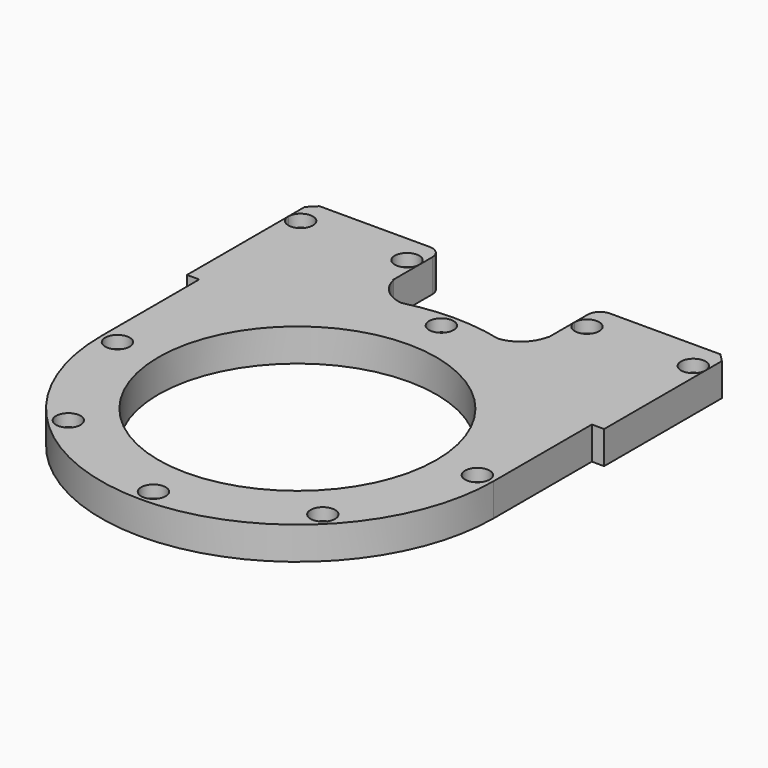
from build123d import *

# Parameters (mm, degrees)
CYLINDER642_R               = 1.5
CYLINDER642_DEPTH           = 30
CYLINDER642_PLACEMENT_ANGLE = 157.5
CYLINDER641_R               = 1.5
CYLINDER641_DEPTH           = 30
CYLINDER641_PLACEMENT_ANGLE = 67.5
CYLINDER688_R               = 3
CYLINDER688_DEPTH           = 3
CYLINDER689_R               = 3
CYLINDER689_DEPTH           = 3
CYLINDER640_R               = 3
CYLINDER640_DEPTH           = 3
CYLINDER637_R               = 3
CYLINDER637_DEPTH           = 3
CYLINDER644_R               = 3
CYLINDER644_DEPTH           = 3
CYLINDER644_PLACEMENT_ANGLE = 157.5
CYLINDER643_R               = 3
CYLINDER643_DEPTH           = 3
CYLINDER643_PLACEMENT_ANGLE = 67.5
CYLINDER634_R               = 3
CYLINDER634_DEPTH           = 3
CYLINDER634_PLACEMENT_ANGLE = 22.5
CYLINDER635_R               = 3
CYLINDER635_DEPTH           = 3
CYLINDER635_PLACEMENT_ANGLE = 112.5
CYLINDER636_R               = 3
CYLINDER636_DEPTH           = 3
CYLINDER636_PLACEMENT_ANGLE = 202.5
CYLINDER687_R               = 3
CYLINDER687_DEPTH           = 3
CYLINDER687_PLACEMENT_ANGLE = 67.5
CYLINDER686_R               = 8
CYLINDER686_DEPTH           = 10
CYLINDER685_R               = 8
CYLINDER685_DEPTH           = 10
CYLINDER622_R               = 1.5
CYLINDER622_DEPTH           = 30
CYLINDER684_R               = 1.5
CYLINDER684_DEPTH           = 30
CYLINDER624_R               = 1.5
CYLINDER624_DEPTH           = 30
CYLINDER621_R               = 1.5
CYLINDER621_DEPTH           = 30
BOX326_W                    = 6
BOX326_H                    = 6
BOX326_DEPTH                = 2
BOX327_W                    = 6
BOX327_H                    = 6
BOX327_DEPTH                = 2
BOX328_W                    = 6
BOX328_H                    = 6
BOX328_DEPTH                = 2
BOX325_W                    = 6
BOX325_H                    = 6
BOX325_DEPTH                = 2
CYLINDER618_R               = 1.5
CYLINDER618_DEPTH           = 30
CYLINDER618_PLACEMENT_ANGLE = 22.5
CYLINDER619_R               = 1.5
CYLINDER619_DEPTH           = 30
CYLINDER619_PLACEMENT_ANGLE = 112.5
CYLINDER620_R               = 1.5
CYLINDER620_DEPTH           = 30
CYLINDER620_PLACEMENT_ANGLE = 202.5
CYLINDER617_R               = 1.5
CYLINDER617_DEPTH           = 30
CYLINDER617_PLACEMENT_ANGLE = 67.5
BOX322_W                    = 6
BOX322_H                    = 8
BOX322_DEPTH                = 2
BOX323_W                    = 6
BOX323_H                    = 8
BOX323_DEPTH                = 2
BOX324_W                    = 6
BOX324_H                    = 8
BOX324_DEPTH                = 2
BOX321_W                    = 6
BOX321_H                    = 8
BOX321_DEPTH                = 2
CYLINDER615_R               = 2.5
CYLINDER615_DEPTH           = 30
CYLINDER616_R               = 2.5
CYLINDER616_DEPTH           = 30
CYLINDER614_R               = 2.5
CYLINDER614_DEPTH           = 150
BOX313_W                    = 20
BOX313_H                    = 200
BOX313_DEPTH                = 20
BOX317_W                    = 20
BOX317_H                    = 200
BOX317_DEPTH                = 20
BOX316_W                    = 11
BOX316_H                    = 38
BOX316_DEPTH                = 8
CYLINDER612_R               = 8
CYLINDER612_DEPTH           = 20
BOX315_W                    = 35
BOX315_H                    = 17
BOX315_DEPTH                = 8
BOX314_W                    = 32
BOX314_H                    = 38
BOX314_DEPTH                = 8
BOX320_W                    = 11
BOX320_H                    = 36
BOX320_DEPTH                = 8
CYLINDER613_R               = 8
CYLINDER613_DEPTH           = 20
BOX319_W                    = 35
BOX319_H                    = 17
BOX319_DEPTH                = 8
BOX318_W                    = 32
BOX318_H                    = 38
BOX318_DEPTH                = 8
TUBE063_R                   = 48
TUBE063_R_2                 = 34
TUBE063_DEPTH               = 8
CHAMFER036_SIZE             = 2
FILLET008_R                 = 3


with BuildPart() as obj1:
    # Cylinder642 → Cylinder642 (new body)
    with BuildSketch(Plane.XY):
        Circle(CYLINDER642_R)
    extrude(amount=CYLINDER642_DEPTH)


with BuildPart() as obj1_1:
    # Cylinder642 placement: moved
    add(obj1.part.moved(Location((31.112698, -31.112698, 10))).rotate(Axis((31.112698, -31.112698, 10), (0, 0, 1)), CYLINDER642_PLACEMENT_ANGLE))


with BuildPart() as compound673:
    # Cylinder641 → Cylinder641 (new body)
    with BuildSketch(Plane.XY):
        Circle(CYLINDER641_R)
    extrude(amount=CYLINDER641_DEPTH)


with BuildPart() as compound673_1:
    # Cylinder641 placement: moved
    add(compound673.part.moved(Location((-31.112698, -31.112698, 10))).rotate(Axis((-31.112698, -31.112698, 10), (0, 0, 1)), CYLINDER641_PLACEMENT_ANGLE))

    # Compound673: union obj1
    add(obj1_1.part)


with BuildPart() as obj2:
    # Cylinder688 → Cylinder688 (new body)
    with BuildSketch(Plane(origin=(-22, 61, 0), x_dir=(1, 0, 0), z_dir=(0, 0, 1))):
        Circle(CYLINDER688_R)
    extrude(amount=CYLINDER688_DEPTH)


with BuildPart() as obj3:
    # Cylinder689 → Cylinder689 (new body)
    with BuildSketch(Plane(origin=(48, 61, 0), x_dir=(1, 0, 0), z_dir=(0, 0, 1))):
        Circle(CYLINDER689_R)
    extrude(amount=CYLINDER689_DEPTH)


with BuildPart() as obj4:
    # Cylinder640 → Cylinder640 (new body)
    with BuildSketch(Plane(origin=(22, 61, 0), x_dir=(1, 0, 0), z_dir=(0, 0, 1))):
        Circle(CYLINDER640_R)
    extrude(amount=CYLINDER640_DEPTH)


with BuildPart() as compound672:
    # Cylinder637 → Cylinder637 (new body)
    with BuildSketch(Plane(origin=(-48, 61, 0), x_dir=(1, 0, 0), z_dir=(0, 0, 1))):
        Circle(CYLINDER637_R)
    extrude(amount=CYLINDER637_DEPTH)

    # Compound672: union obj2, obj3, obj4
    add(obj2.part)
    add(obj3.part)
    add(obj4.part)


with BuildPart() as compound672_1:
    # Compound672 placement: moved
    add(compound672.part.moved(Location((0, 0, 28))))


with BuildPart() as obj5:
    # Cylinder644 → Cylinder644 (new body)
    with BuildSketch(Plane.XY):
        Circle(CYLINDER644_R)
    extrude(amount=CYLINDER644_DEPTH)


with BuildPart() as obj5_1:
    # Cylinder644 placement: moved
    add(obj5.part.moved(Location((31.112698, -31.112698, 10))).rotate(Axis((31.112698, -31.112698, 10), (0, 0, 1)), CYLINDER644_PLACEMENT_ANGLE))


with BuildPart() as compound674:
    # Cylinder643 → Cylinder643 (new body)
    with BuildSketch(Plane.XY):
        Circle(CYLINDER643_R)
    extrude(amount=CYLINDER643_DEPTH)


with BuildPart() as compound674_1:
    # Cylinder643 placement: moved
    add(compound674.part.moved(Location((-31.112698, -31.112698, 10))).rotate(Axis((-31.112698, -31.112698, 10), (0, 0, 1)), CYLINDER643_PLACEMENT_ANGLE))

    # Compound674: union obj5
    add(obj5_1.part)


with BuildPart() as compound674_2:
    # Compound674 placement: moved
    add(compound674_1.part.moved(Location((0, 0, 18))))


with BuildPart() as obj6:
    # Cylinder634 → Cylinder634 (new body)
    with BuildSketch(Plane.XY):
        Circle(CYLINDER634_R)
    extrude(amount=CYLINDER634_DEPTH)


with BuildPart() as obj6_1:
    # Cylinder634 placement: moved
    add(obj6.part.moved(Location((-44, 0, 10))).rotate(Axis((-44, 0, 10), (0, 0, 1)), CYLINDER634_PLACEMENT_ANGLE))


with BuildPart() as obj7:
    # Cylinder635 → Cylinder635 (new body)
    with BuildSketch(Plane.XY):
        Circle(CYLINDER635_R)
    extrude(amount=CYLINDER635_DEPTH)


with BuildPart() as obj7_1:
    # Cylinder635 placement: moved
    add(obj7.part.moved(Location((0, -44, 10))).rotate(Axis((0, -44, 10), (0, 0, 1)), CYLINDER635_PLACEMENT_ANGLE))


with BuildPart() as obj8:
    # Cylinder636 → Cylinder636 (new body)
    with BuildSketch(Plane.XY):
        Circle(CYLINDER636_R)
    extrude(amount=CYLINDER636_DEPTH)


with BuildPart() as obj8_1:
    # Cylinder636 placement: moved
    add(obj8.part.moved(Location((44, 0, 10))).rotate(Axis((44, 0, 10), (0, 0, 1)), CYLINDER636_PLACEMENT_ANGLE))


with BuildPart() as compound671:
    # Cylinder687 → Cylinder687 (new body)
    with BuildSketch(Plane.XY):
        Circle(CYLINDER687_R)
    extrude(amount=CYLINDER687_DEPTH)


with BuildPart() as compound671_1:
    # Cylinder687 placement: moved
    add(compound671.part.moved(Location((0, 44, 10))).rotate(Axis((0, 44, 10), (0, 0, -1)), CYLINDER687_PLACEMENT_ANGLE))

    # Compound671: union obj6, obj7, obj8
    add(obj6_1.part)
    add(obj7_1.part)
    add(obj8_1.part)


with BuildPart() as compound671_2:
    # Compound671 placement: moved
    add(compound671_1.part.moved(Location((0, 0, 18))))


with BuildPart() as obj9:
    # Cylinder686 → Cylinder686 (new body)
    with BuildSketch(Plane(origin=(9, 56, 18), x_dir=(0, 0, -1), z_dir=(1, 0, 0))):
        Circle(CYLINDER686_R)
    extrude(amount=CYLINDER686_DEPTH)


with BuildPart() as compound670:
    # Cylinder685 → Cylinder685 (new body)
    with BuildSketch(Plane(origin=(-19, 56, 18), x_dir=(0, 0, -1), z_dir=(1, 0, 0))):
        Circle(CYLINDER685_R)
    extrude(amount=CYLINDER685_DEPTH)

    # Compound670: union obj9
    add(obj9.part)


with BuildPart() as obj10:
    # Cylinder622 → Cylinder622 (new body)
    with BuildSketch(Plane(origin=(-22, 61, 0), x_dir=(1, 0, 0), z_dir=(0, 0, 1))):
        Circle(CYLINDER622_R)
    extrude(amount=CYLINDER622_DEPTH)


with BuildPart() as obj11:
    # Cylinder684 → Cylinder684 (new body)
    with BuildSketch(Plane(origin=(48, 61, 0), x_dir=(1, 0, 0), z_dir=(0, 0, 1))):
        Circle(CYLINDER684_R)
    extrude(amount=CYLINDER684_DEPTH)


with BuildPart() as obj12:
    # Cylinder624 → Cylinder624 (new body)
    with BuildSketch(Plane(origin=(22, 61, 0), x_dir=(1, 0, 0), z_dir=(0, 0, 1))):
        Circle(CYLINDER624_R)
    extrude(amount=CYLINDER624_DEPTH)


with BuildPart() as compound659:
    # Cylinder621 → Cylinder621 (new body)
    with BuildSketch(Plane(origin=(-48, 61, 0), x_dir=(1, 0, 0), z_dir=(0, 0, 1))):
        Circle(CYLINDER621_R)
    extrude(amount=CYLINDER621_DEPTH)

    # Compound659: union obj10, obj11, obj12
    add(obj10.part)
    add(obj11.part)
    add(obj12.part)


with BuildPart() as compound659_1:
    # Compound659 placement: moved
    add(compound659.part.moved(Location((0, 0, 7))))


with BuildPart() as krychle326:
    # Box326 → Box326 (new body)
    with BuildSketch(Plane(origin=(-25, 58, 12), x_dir=(1, 0, 0), z_dir=(0, 0, 1))):
        with Locations((3, 3)):
            Rectangle(BOX326_W, BOX326_H)
    extrude(amount=BOX326_DEPTH)


with BuildPart() as krychle327:
    # Box327 → Box327 (new body)
    with BuildSketch(Plane(origin=(45, 58, 12), x_dir=(1, 0, 0), z_dir=(0, 0, 1))):
        with Locations((3, 3)):
            Rectangle(BOX327_W, BOX327_H)
    extrude(amount=BOX327_DEPTH)


with BuildPart() as krychle328:
    # Box328 → Box328 (new body)
    with BuildSketch(Plane(origin=(19, 58, 12), x_dir=(1, 0, 0), z_dir=(0, 0, 1))):
        with Locations((3, 3)):
            Rectangle(BOX328_W, BOX328_H)
    extrude(amount=BOX328_DEPTH)


with BuildPart() as compound669:
    # Box325 → Box325 (new body)
    with BuildSketch(Plane(origin=(-51, 58, 12), x_dir=(1, 0, 0), z_dir=(0, 0, 1))):
        with Locations((3, 3)):
            Rectangle(BOX325_W, BOX325_H)
    extrude(amount=BOX325_DEPTH)

    # Compound669: union Krychle326, Krychle327, Krychle328
    add(krychle326.part)
    add(krychle327.part)
    add(krychle328.part)


with BuildPart() as obj13:
    # Cylinder618 → Cylinder618 (new body)
    with BuildSketch(Plane.XY):
        Circle(CYLINDER618_R)
    extrude(amount=CYLINDER618_DEPTH)


with BuildPart() as obj13_1:
    # Cylinder618 placement: moved
    add(obj13.part.moved(Location((-44, 0, 10))).rotate(Axis((-44, 0, 10), (0, 0, 1)), CYLINDER618_PLACEMENT_ANGLE))


with BuildPart() as obj14:
    # Cylinder619 → Cylinder619 (new body)
    with BuildSketch(Plane.XY):
        Circle(CYLINDER619_R)
    extrude(amount=CYLINDER619_DEPTH)


with BuildPart() as obj14_1:
    # Cylinder619 placement: moved
    add(obj14.part.moved(Location((0, -44, 10))).rotate(Axis((0, -44, 10), (0, 0, 1)), CYLINDER619_PLACEMENT_ANGLE))


with BuildPart() as obj15:
    # Cylinder620 → Cylinder620 (new body)
    with BuildSketch(Plane.XY):
        Circle(CYLINDER620_R)
    extrude(amount=CYLINDER620_DEPTH)


with BuildPart() as obj15_1:
    # Cylinder620 placement: moved
    add(obj15.part.moved(Location((44, 0, 10))).rotate(Axis((44, 0, 10), (0, 0, 1)), CYLINDER620_PLACEMENT_ANGLE))


with BuildPart() as compound658:
    # Cylinder617 → Cylinder617 (new body)
    with BuildSketch(Plane.XY):
        Circle(CYLINDER617_R)
    extrude(amount=CYLINDER617_DEPTH)


with BuildPart() as compound658_1:
    # Cylinder617 placement: moved
    add(compound658.part.moved(Location((0, 44, 10))).rotate(Axis((0, 44, 10), (0, 0, -1)), CYLINDER617_PLACEMENT_ANGLE))

    # Compound658: union obj13, obj14, obj15
    add(obj13_1.part)
    add(obj14_1.part)
    add(obj15_1.part)


with BuildPart() as krychle322:
    # Box322 → Box322 (new body)
    with BuildSketch(Plane(origin=(-41, -3, 16), x_dir=(0, 1, 0), z_dir=(0, 0, 1))):
        with Locations((3, 4)):
            Rectangle(BOX322_W, BOX322_H)
    extrude(amount=BOX322_DEPTH)


with BuildPart() as krychle323:
    # Box323 → Box323 (new body)
    with BuildSketch(Plane(origin=(3, -41, 16), x_dir=(-1, 0, 0), z_dir=(0, 0, 1))):
        with Locations((3, 4)):
            Rectangle(BOX323_W, BOX323_H)
    extrude(amount=BOX323_DEPTH)


with BuildPart() as krychle324:
    # Box324 → Box324 (new body)
    with BuildSketch(Plane(origin=(41, 3, 16), x_dir=(0, -1, 0), z_dir=(0, 0, 1))):
        with Locations((3, 4)):
            Rectangle(BOX324_W, BOX324_H)
    extrude(amount=BOX324_DEPTH)


with BuildPart() as compound657:
    # Box321 → Box321 (new body)
    with BuildSketch(Plane(origin=(-3, 41, 16), x_dir=(1, 0, 0), z_dir=(0, 0, 1))):
        with Locations((3, 4)):
            Rectangle(BOX321_W, BOX321_H)
    extrude(amount=BOX321_DEPTH)

    # Compound657: union Krychle322, Krychle323, Krychle324
    add(krychle322.part)
    add(krychle323.part)
    add(krychle324.part)


with BuildPart() as obj16:
    # Cylinder615 → Cylinder615 (new body)
    with BuildSketch(Plane(origin=(-57, 38, 18), x_dir=(0, 0, -1), z_dir=(1, 0, 0))):
        Circle(CYLINDER615_R)
    extrude(amount=CYLINDER615_DEPTH)


with BuildPart() as obj17:
    # Cylinder616 → Cylinder616 (new body)
    with BuildSketch(Plane(origin=(28, 38, 18), x_dir=(0, 0, -1), z_dir=(1, 0, 0))):
        Circle(CYLINDER616_R)
    extrude(amount=CYLINDER616_DEPTH)


with BuildPart() as compound656:
    # Cylinder614 → Cylinder614 (new body)
    with BuildSketch(Plane(origin=(-57, 56, 18), x_dir=(0, 0, -1), z_dir=(1, 0, 0))):
        Circle(CYLINDER614_R)
    extrude(amount=CYLINDER614_DEPTH)

    # Compound656: union obj16, obj17
    add(obj16.part)
    add(obj17.part)


with BuildPart() as krychle313:
    # Box313 → Box313 (new body)
    with BuildSketch(Plane(origin=(-45, 28, 8), x_dir=(1, 0, 0), z_dir=(0, 0, 1))):
        with Locations((10, 100)):
            Rectangle(BOX313_W, BOX313_H)
    extrude(amount=BOX313_DEPTH)


with BuildPart() as compound655:
    # Box317 → Box317 (new body)
    with BuildSketch(Plane(origin=(25, 28, 8), x_dir=(1, 0, 0), z_dir=(0, 0, 1))):
        with Locations((10, 100)):
            Rectangle(BOX317_W, BOX317_H)
    extrude(amount=BOX317_DEPTH)

    # Compound655: union Krychle313
    add(krychle313.part)


with BuildPart() as krychle316:
    # Box316 → Box316 (new body)
    with BuildSketch(Plane(origin=(37, 0, 5), x_dir=(1, 0, 0), z_dir=(0, 0, 1))):
        with Locations((5.5, 19)):
            Rectangle(BOX316_W, BOX316_H)
    extrude(amount=BOX316_DEPTH)


with BuildPart() as obj18:
    # Cylinder612 → Cylinder612 (new body)
    with BuildSketch(Plane(origin=(11, 54.5, 3), x_dir=(1, 0, 0), z_dir=(0, 0, 1))):
        Circle(CYLINDER612_R)
    extrude(amount=CYLINDER612_DEPTH)


with BuildPart() as cut280:
    # Box315 → Box315 (new body)
    with BuildSketch(Plane(origin=(10, 36, 5), x_dir=(1, 0, 0), z_dir=(0, 0, 1))):
        with Locations((17.5, 8.5)):
            Rectangle(BOX315_W, BOX315_H)
    extrude(amount=BOX315_DEPTH)

    # Cut280: cut obj18
    add(obj18.part, mode=Mode.SUBTRACT)


with BuildPart() as fusion015:
    # Box314 → Box314 (new body)
    with BuildSketch(Plane(origin=(19, 30, 5), x_dir=(1, 0, 0), z_dir=(0, 0, 1))):
        with Locations((16, 19)):
            Rectangle(BOX314_W, BOX314_H)
    extrude(amount=BOX314_DEPTH)

    # Fusion015: union Krychle316, Cut280
    add(krychle316.part)
    add(cut280.part)


with BuildPart() as fusion015_1:
    # Fusion015 placement: moved
    add(fusion015.part.moved(Location((0, 0, 18))))


with BuildPart() as mirror005:
    # mirror005: instance of Fusion015
    add(fusion015_1.part.mirror(Plane(origin=(0, 0, 0), x_dir=(0, -1, 0), z_dir=(1, 0, 0))))


with BuildPart() as krychle320:
    # Box320 → Box320 (new body)
    with BuildSketch(Plane(origin=(37, 0, 5), x_dir=(1, 0, 0), z_dir=(0, 0, 1))):
        with Locations((5.5, 18)):
            Rectangle(BOX320_W, BOX320_H)
    extrude(amount=BOX320_DEPTH)


with BuildPart() as obj19:
    # Cylinder613 → Cylinder613 (new body)
    with BuildSketch(Plane(origin=(11, 54.5, 3), x_dir=(1, 0, 0), z_dir=(0, 0, 1))):
        Circle(CYLINDER613_R)
    extrude(amount=CYLINDER613_DEPTH)


with BuildPart() as cut281:
    # Box319 → Box319 (new body)
    with BuildSketch(Plane(origin=(10, 36, 5), x_dir=(1, 0, 0), z_dir=(0, 0, 1))):
        with Locations((17.5, 8.5)):
            Rectangle(BOX319_W, BOX319_H)
    extrude(amount=BOX319_DEPTH)

    # Cut281: cut obj19
    add(obj19.part, mode=Mode.SUBTRACT)


with BuildPart() as fusion016:
    # Box318 → Box318 (new body)
    with BuildSketch(Plane(origin=(19, 30, 5), x_dir=(1, 0, 0), z_dir=(0, 0, 1))):
        with Locations((16, 19)):
            Rectangle(BOX318_W, BOX318_H)
    extrude(amount=BOX318_DEPTH)

    # Fusion016: union Krychle320, Cut281
    add(krychle320.part)
    add(cut281.part)


with BuildPart() as fusion016_1:
    # Fusion016 placement: moved
    add(fusion016.part.moved(Location((0, 0, 18))))


with BuildPart() as fillet008:
    # Tube063 → Tube063 (new body)
    with BuildSketch(Plane.XY.offset(23)):
        Circle(TUBE063_R)
        Circle(TUBE063_R_2, mode=Mode.SUBTRACT)
    extrude(amount=TUBE063_DEPTH)

    # Fusion017: union mirror005, Fusion016
    add(mirror005.part)
    add(fusion016_1.part)

    # Cut282: cut Compound655
    add(compound655.part, mode=Mode.SUBTRACT)

    # Cut283: cut Compound656
    add(compound656.part, mode=Mode.SUBTRACT)

    # Cut284: cut Compound657
    add(compound657.part, mode=Mode.SUBTRACT)

    # Cut302: cut Compound658
    add(compound658_1.part, mode=Mode.SUBTRACT)

    # Cut286: cut Compound669
    add(compound669.part, mode=Mode.SUBTRACT)

    # Cut303: cut Compound659
    add(compound659_1.part, mode=Mode.SUBTRACT)

    # Cut288: cut Compound670
    add(compound670.part, mode=Mode.SUBTRACT)

    # Cut289: cut Compound671
    add(compound671_2.part, mode=Mode.SUBTRACT)

    # Cut304: cut Compound674
    add(compound674_2.part, mode=Mode.SUBTRACT)

    # Cut305: cut Compound672
    add(compound672_1.part, mode=Mode.SUBTRACT)

    # Cut306: cut Compound673
    add(compound673_1.part, mode=Mode.SUBTRACT)

    # Chamfer036
    chamfer036_edges = [fillet008.edges().sort_by_distance(p)[0] for p in [
        (-51, 68, 27),
        (51, 68, 27),
    ]]
    chamfer(chamfer036_edges, length=CHAMFER036_SIZE)

    # Fillet008
    fillet008_edges = [fillet008.edges().sort_by_distance(p)[0] for p in [
        (-19, 68, 27),
        (19, 68, 27),
    ]]
    fillet(fillet008_edges, radius=FILLET008_R)


solid = fillet008.part
